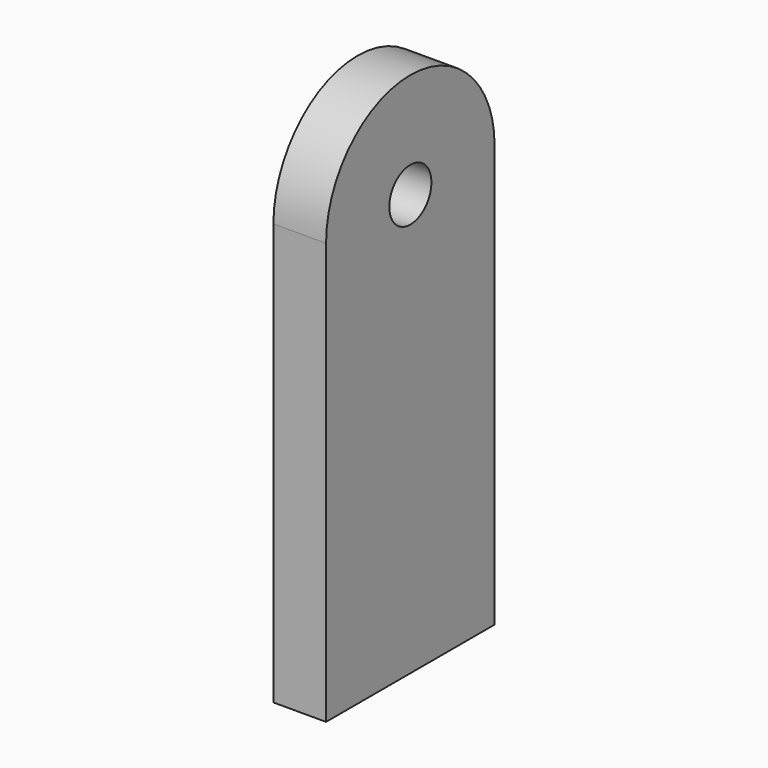
from build123d import *

# Parameters (mm, degrees)
F1_DEPTH = 6.35
F3_D     = 3.175
F3_DEPTH = 12.7
F3_TIP   = 0.9538662327


with BuildPart() as f1:
    # F0 (on Right) → F1 (new body)
    with BuildSketch(Plane.YZ):
        with BuildLine():
            Line((0, 50.8), (0, 0))
            Line((0, 0), (25.4, 0))
            Line((25.4, 0), (25.4, 50.8))
            ThreePointArc((25.4, 50.8), (12.7, 38.1), (0, 50.8))
        make_face()
        with BuildLine():
            Line((9.525, 50.8), (0, 50.8))
            ThreePointArc((0, 50.8), (12.7, 38.1), (25.4, 50.8))
            Line((25.4, 50.8), (15.875, 50.8))
            ThreePointArc((15.875, 50.8), (12.7, 47.625), (9.525, 50.8))
        make_face()
        with BuildLine():
            ThreePointArc((25.4, 50.8), (12.7, 63.5), (0, 50.8))
            Line((0, 50.8), (9.525, 50.8))
            ThreePointArc((9.525, 50.8), (12.7, 53.975), (15.875, 50.8))
            Line((15.875, 50.8), (25.4, 50.8))
        make_face()
    extrude(amount=F1_DEPTH)

    # F3
    with Locations(Plane(origin=(0, 0, 0), x_dir=(1, 0, 0), z_dir=(0, 0, -1))):
        with Locations((3.175, -3.175), (3.175, -22.225)):
            Hole(F3_D / 2, depth=F3_DEPTH)
            with Locations((0, 0, -(F3_DEPTH + F3_TIP / 2))):  # 118° drill point
                Cone(0, F3_D / 2, F3_TIP, mode=Mode.SUBTRACT)


solid = f1.part
